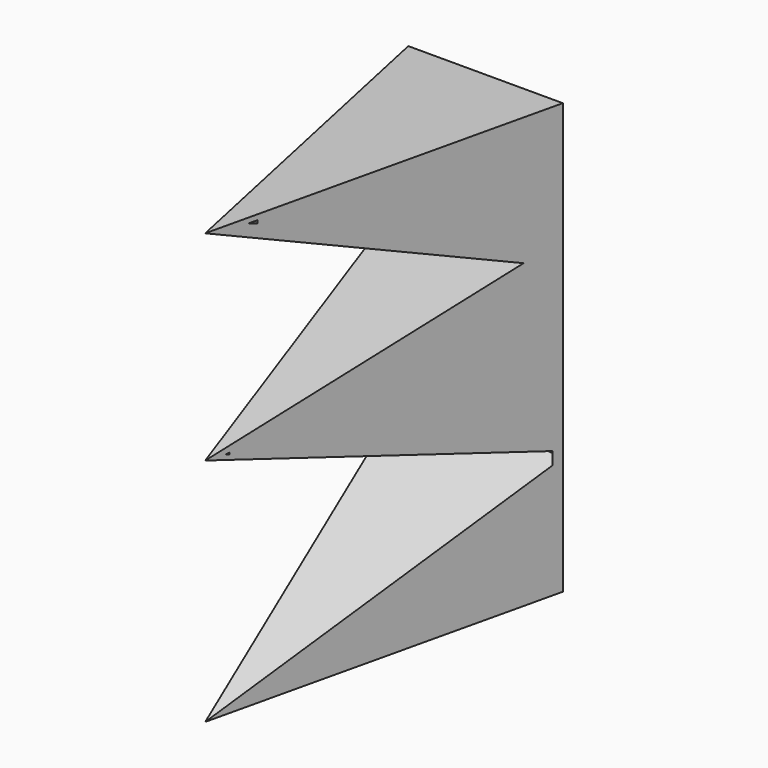
from build123d import *

# Parameters (mm, degrees)
F1_DEPTH  = 74.422
F3_DEPTH  = 25.4
F5_DEPTH  = 25.4
F7_DEPTH  = 3.81
F9_DEPTH  = 1.778
F11_DEPTH = 1.778


with BuildPart() as f1:
    # F0 (on Top) → F1 (new body)
    with BuildSketch(Plane.XY):
        Polygon((13.9353908598, 24.9320268631), (-12.7978082746, 24.9320268631), (0, -34.9806770682), align=None)
    extrude(amount=F1_DEPTH)

    # F2 (on face) → F3 (cut)
    with BuildSketch(Plane(origin=(7.718740982, -1.7953399775, 0), x_dir=(0.226547485, 0.9740001217, 0), z_dir=(0.9740001217, -0.226547485, 0))):
        Polygon((20.695079118, 52.2201247513), (-34.0711837213, 74.422), (-34.0711837213, 39.8090481758), align=None)
    extrude(amount=-F3_DEPTH, mode=Mode.SUBTRACT)

    # F4 (on face) → F5 (cut)
    with BuildSketch(Plane(origin=(-7.1460755316, -1.5264559696, 0), x_dir=(0.2088949953, -0.9779380762, 0), z_dir=(-0.9779380762, -0.2088949953, 0))):
        Polygon((34.2089360376, 0), (34.2089360376, 39.8090481758), (-23.0083428323, 20.9681969136), align=None)
    extrude(amount=-F5_DEPTH, mode=Mode.SUBTRACT)

    # F6 (on face) → F7 (cut)
    with BuildSketch(Plane(origin=(-7.1460755316, -1.5264559696, 0), x_dir=(0.2088949953, -0.9779380762, 0), z_dir=(-0.9779380762, -0.2088949953, 0))):
        Polygon((14.3255656585, 73.5306164718), (-25.4703722894, 73.2393935323), (-25.4703722894, 53.7560619414), (22.024974227, 71.4815631509), (25.38343653, 72.7349581039), (27.5516982051, 73.5306164718), align=None)
    extrude(amount=-F7_DEPTH, mode=Mode.SUBTRACT)

    # F8 (on face) → F9 (cut)
    with BuildSketch(Plane(origin=(-7.1460755316, -1.5264559696, 0), x_dir=(0.2088949953, -0.9779380762, 0), z_dir=(-0.9779380762, -0.2088949953, 0))):
        Polygon((20.7908283919, 41.430156678), (-25.4458747804, 50.9817264974), (-25.4333440341, 22.6434153364), (-24.5192568436, 22.9174265555), (16.8412234634, 35.3158451617), (31.0665536672, 39.5800992846), align=None)
    extrude(amount=-F9_DEPTH, mode=Mode.SUBTRACT)

    # F10 (on face) → F11 (cut)
    with BuildSketch(Plane(origin=(4.7807632282, 20.554030722, 52.0548786677), x_dir=(0.9963713167, -0.031258558, -0.0791650292), z_dir=(-0.0851128621, -0.3659274261, -0.9267431788))):
        Polygon((5.2179168689, 4.4931433875), (-5.1948507316, 51.9638061523), (-15.6265430034, 0), align=None)
    extrude(amount=-F11_DEPTH, mode=Mode.SUBTRACT)


solid = f1.part
